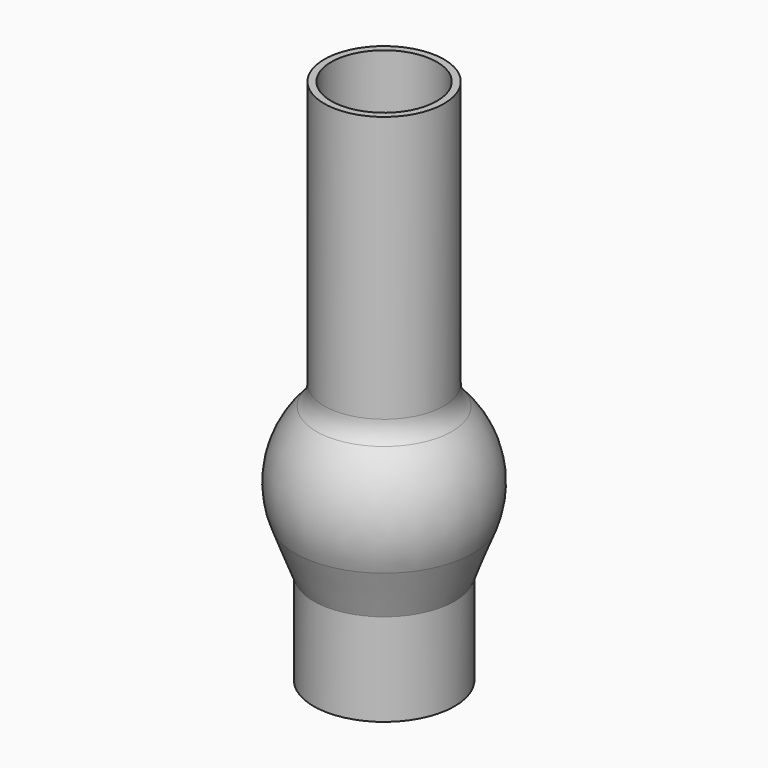
from build123d import *


with BuildPart() as f1:
    # F0 (on Front) → F1 (revolve)
    with BuildSketch(Plane.XZ):
        with BuildLine():
            ThreePointArc((17.857143, 17.496355), (24.47656, 5.08901), (23.351244, -8.928571))
            Line((23.351244, -8.928571), (11.675622, -39.464286))
            ThreePointArc((11.675622, -39.464286), (7.086834, -45.296931), (0, -47.5))
            Line((0, -47.5), (0, -49.5))
            Line((0, -49.5), (20, -49.5))
            Line((20, -49.5), (20, -23.293213))
            Line((20, -23.293213), (25.219344, -9.642857))
            ThreePointArc((25.219344, -9.642857), (26.434685, 5.49613), (19.285714, 18.896064))
            ThreePointArc((19.285714, 18.896064), (17.593439, 21.471182), (17, 24.494897))
            Line((17, 24.494897), (17, 100))
            Line((17, 100), (15, 100))
            Line((15, 100), (15, 24.494897))
            ThreePointArc((15, 24.494897), (15.741799, 20.715253), (17.857143, 17.496355))
        make_face()
    revolve(axis=Axis((0, 0, 55.570815), (0, 0, 1)))


solid = f1.part
